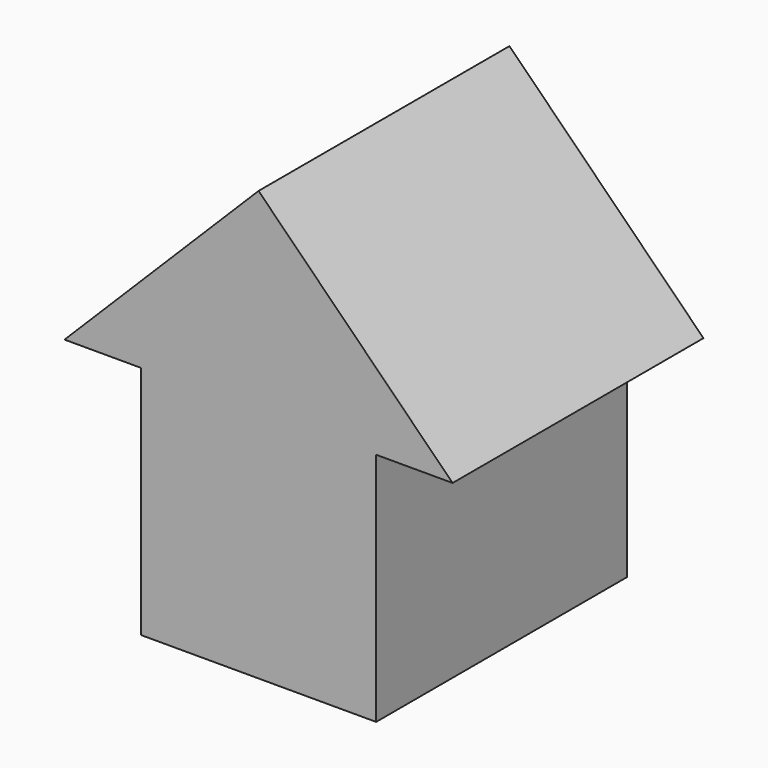
from build123d import *

# Parameters (mm, degrees)
F0_W     = 38.1
F0_H     = 38.1
F0_R     = 6.58852
F1_DEPTH = 50.8


with BuildPart() as f1:
    # F0 (on Front) → F1 (new body)
    with BuildSketch(Plane.XZ):
        with Locations((19.05, 19.05)):
            Rectangle(F0_W, F0_H)
        with Locations((19.05, 19.05)):
            Circle(F0_R, mode=Mode.SUBTRACT)
        Polygon((-12.380896, 38.1), (0, 38.1), (38.1, 38.1), (50.480896, 38.1), (19.05, 69.530896), align=None)
        with Locations((19.05, 19.05)):
            Circle(F0_R)
    extrude(amount=F1_DEPTH)


solid = f1.part
